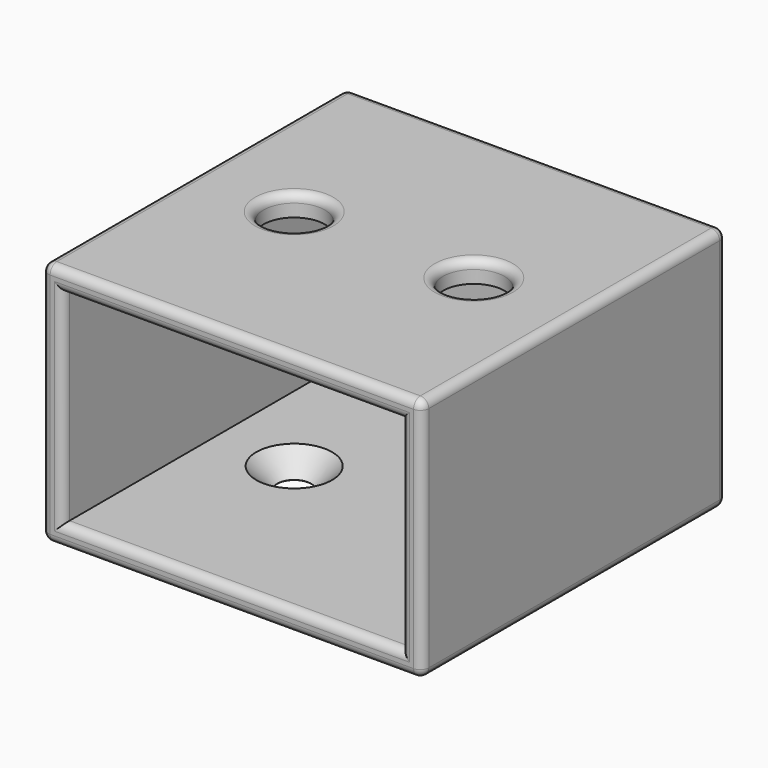
from build123d import *

# Parameters (mm, degrees)
SKETCH_W          = 45
SKETCH_H          = 29
PAD_DEPTH         = 45
SKETCH001_W       = 40
SKETCH001_H       = 24
POCKET_DEPTH      = 0.001
POCKET_DEPTH_BACK = 45.001
SKETCH002_R       = 3.62
POCKET001_DEPTH   = 3.5
SKETCH003_R       = 2
POCKET002_DEPTH   = 2.5
CHAMFER_SIZE      = 2.485
SKETCH004_W       = 45
SKETCH004_H       = 29
PAD001_DEPTH      = 2
FILLET_R          = 1


with BuildPart() as part:
    # Sketch → Pad (new body)
    with BuildSketch(Plane.XZ):
        Rectangle(SKETCH_W, SKETCH_H)
    extrude(amount=PAD_DEPTH)

    # Sketch001 → Pocket (cut, two sides)
    with BuildSketch(Plane.XZ) as pocket_sk:
        Rectangle(SKETCH001_W, SKETCH001_H)
    extrude(amount=-POCKET_DEPTH, mode=Mode.SUBTRACT)
    extrude(pocket_sk.sketch, amount=POCKET_DEPTH_BACK, mode=Mode.SUBTRACT)

    # Sketch002 (on DatumPlane) → Pocket001 (cut)
    with BuildSketch(Plane(origin=(0, 0, 14.5), x_dir=(-1, 0, 0), z_dir=(0, 0, 1))):
        with Locations((-10.625, 22.5)):
            Circle(SKETCH002_R)
        with Locations((10.625, 22.5)):
            Circle(SKETCH002_R)
    extrude(amount=-POCKET001_DEPTH, mode=Mode.SUBTRACT)

    # Sketch003 (on DatumPlane) → Pocket002 (cut)
    with BuildSketch(Plane(origin=(0, 0, -12), x_dir=(-1, 0, 0), z_dir=(0, 0, 1))):
        with Locations((-10.625, 22.5)):
            Circle(SKETCH003_R)
        with Locations((10.625, 22.5)):
            Circle(SKETCH003_R)
    extrude(amount=-POCKET002_DEPTH, mode=Mode.SUBTRACT)

    # Chamfer
    chamfer_edges = [part.edges().sort_by_distance(p)[0] for p in [
        (-8.625, -22.5, -12),
        (12.625, -22.5, -12),
    ]]
    chamfer(chamfer_edges, length=CHAMFER_SIZE)

    # Sketch004 → Pad001 (join)
    with BuildSketch(Plane.XZ):
        Rectangle(SKETCH004_W, SKETCH004_H)
    extrude(amount=PAD001_DEPTH)

    # Fillet
    fillet_edges = [part.edges().sort_by_distance(p)[0] for p in [
        (-22.5, -45, 0),
        (0, -45, 14.5),
        (0, -45, -14.5),
        (22.5, -45, 0),
        (-20, -45, 0),
        (0, -45, 12),
        (20, -45, 0),
        (0, -45, -12),
        (22.5, -23.5, 14.5),
        (22.5, -23.5, -14.5),
        (-22.5, -23.5, 14.5),
        (-22.5, -23.5, -14.5),
        (0, 0, 14.5),
        (-22.5, 0, 0),
        (22.5, 0, 0),
        (22.5, -1, 14.5),
        (-22.5, -1, 14.5),
        (-22.5, -1, -14.5),
        (22.5, -1, -14.5),
        (0, 0, -14.5),
        (-7.005, -22.5, 14.5),
        (14.245, -22.5, 14.5),
    ]]
    fillet(fillet_edges, radius=FILLET_R)


solid = part.part
